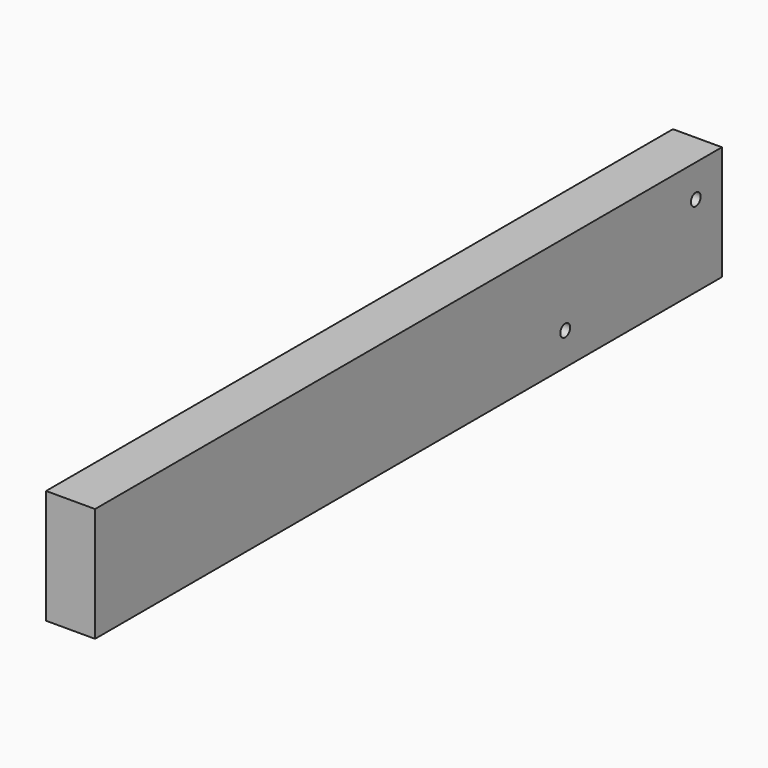
from build123d import *

# Parameters (mm, degrees)
F0_W     = 609.6
F0_H     = 88.9
F1_DEPTH = 38.1
F2_R     = 4.7625
F3_DEPTH = 38.101


with BuildPart() as f1:
    # F0 (on Right) → F1 (new body)
    with BuildSketch(Plane.YZ):
        with Locations((304.8, 44.45)):
            Rectangle(F0_W, F0_H)
    extrude(amount=F1_DEPTH)

    # F2 (on face) → F3 (cut, through all)
    with BuildSketch(Plane.YZ.offset(38.1)):
        with Locations((457.2, 25.4)):
            Circle(F2_R)
        with Locations((584.2, 63.5)):
            Circle(F2_R)
    extrude(amount=-F3_DEPTH, mode=Mode.SUBTRACT)


solid = f1.part
